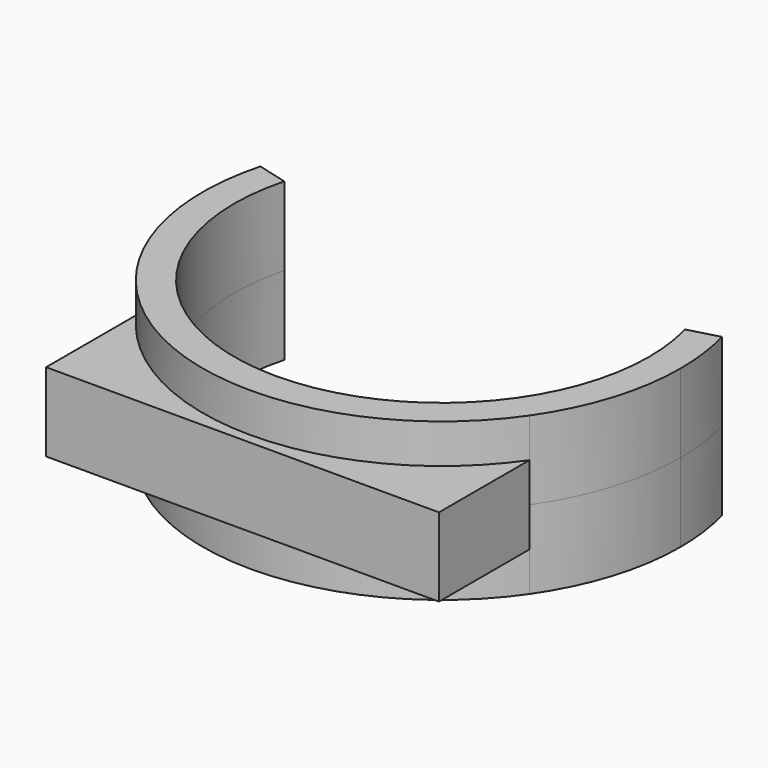
from build123d import *

# Parameters (mm, degrees)
F1_DEPTH = 6.35
F2_DEPTH = 3.175


with BuildPart() as f1:
    # F0 (on Top) → F1 (new body, symmetric)
    with BuildSketch(Plane.XY):
        with BuildLine():
            ThreePointArc((15.875, -10.9831139027), (18.4268203443, -5.7529738397), (19.304, 0))
            ThreePointArc((19.304, 0), (19.138851604, 2.5196776146), (18.6462321507, 4.9962428467))
            Line((18.6462321507, 4.9962428467), (16.1927805519, 4.3388424721))
            ThreePointArc((16.1927805519, 4.3388424721), (16.6205816561, 2.1881410864), (16.764, 0))
            ThreePointArc((16.764, 0), (-2.1881410864, -16.6205816561), (-16.1927805519, 4.3388424721))
            Line((-16.1927805519, 4.3388424721), (-18.6462321507, 4.9962428467))
            ThreePointArc((-18.6462321507, 4.9962428467), (-19.020090111, -3.2985736567), (-15.875, -10.9831139027))
            ThreePointArc((-15.875, -10.9831139027), (0, -19.304), (15.875, -10.9831139027))
        make_face()
    extrude(amount=F1_DEPTH, both=True)

    # F0 (on Top) → F2 (join, symmetric)
    with BuildSketch(Plane.XY):
        with BuildLine():
            Line((15.875, -20.1168), (15.875, -10.9831139027))
            ThreePointArc((15.875, -10.9831139027), (0, -19.304), (-15.875, -10.9831139027))
            Line((-15.875, -10.9831139027), (-15.875, -20.1168))
            Line((-15.875, -20.1168), (15.875, -20.1168))
        make_face()
    extrude(amount=F2_DEPTH, both=True)


solid = f1.part
